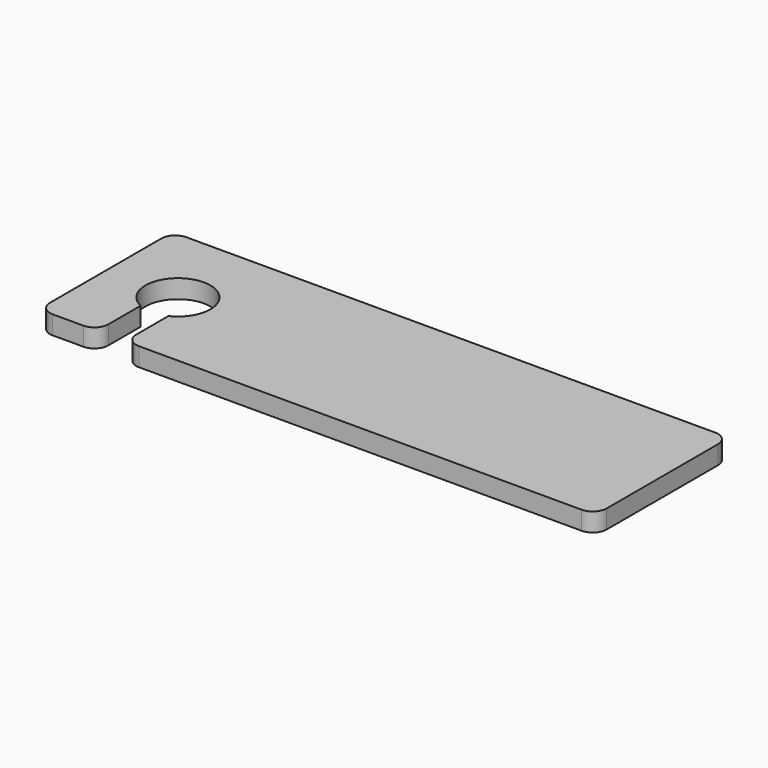
from build123d import *

# Parameters (mm, degrees)
F1_DEPTH = 2
F2_R     = 1.5


with BuildPart() as f1:
    # F0 (on Top) → F1 (new body)
    with BuildSketch(Plane.XY):
        with BuildLine():
            Line((-20.707241, -9), (30, -9))
            Line((30, -9), (30, 9))
            Line((30, 9), (-30, 9))
            Line((-30, 9), (-30, -9))
            Line((-30, -9), (-23.707241, -9))
            Line((-23.707241, -9), (-23.707241, -3.162278))
            ThreePointArc((-23.707241, -3.162278), (-22.207241, 3.5), (-20.707241, -3.162278))
            Line((-20.707241, -3.162278), (-20.707241, -9))
        make_face()
    extrude(amount=F1_DEPTH)

    # F2
    f2_edges = [f1.edges().sort_by_distance(p)[0] for p in [
        (30, -9, 1),
        (30, 9, 1),
        (-30, -9, 1),
        (-30, 9, 1),
        (-23.707241, -9, 1),
        (-20.707241, -9, 1),
    ]]
    fillet(f2_edges, radius=F2_R)


solid = f1.part
